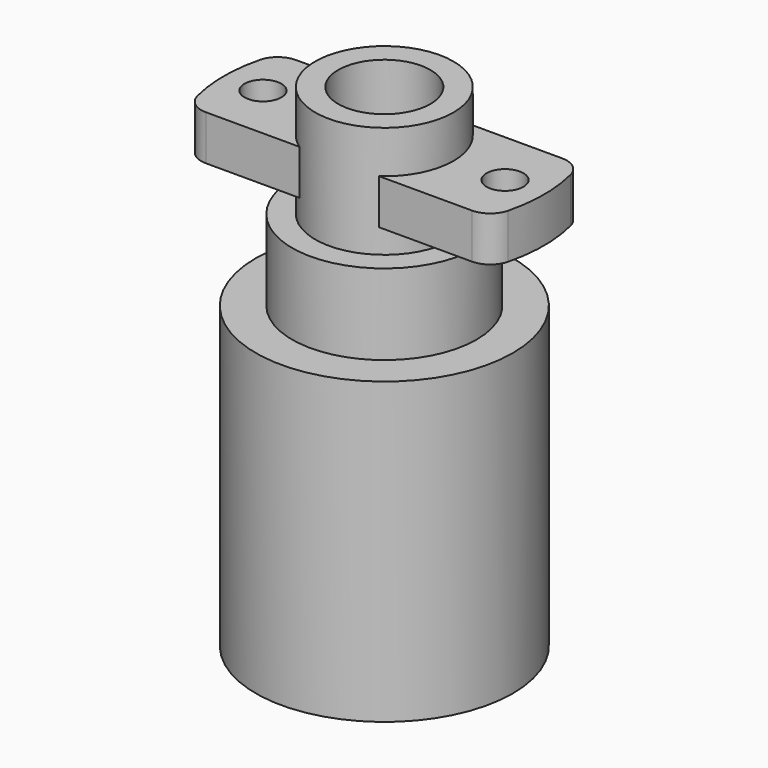
from build123d import *

# Parameters (mm, degrees)
F3_R     = 4
F4_DEPTH = 3.9
F5_R     = 1.6
F6_DEPTH = 3.9


with BuildPart() as f1:
    # F0 (on Front) → F1 (revolve)
    with BuildSketch(Plane.XZ):
        Polygon((3.0294142647, -2.9052242924), (3.0294142647, -18.0052242924), (11.1794142647, -18.0052242924), (11.1794142647, 7.9947757076), (8.0294142647, 7.9947757076), (8.0294142647, 14.9947757076), (6.0294142647, 14.9947757076), (6.0294142647, 20.9947757076), (6.0294142647, 24.6947757076), (4.0294142647, 24.6947757076), (4.0294142647, 18.1947757076), (2.1294142647, 17.1845277874), (2.1294142647, -2.3644497353), align=None)
    revolve(axis=Axis((0.0294142647, 0, 3.3447757076), (0, 0, -1)))

    # F3 (on offset) → F4 (join)
    with BuildSketch(Plane.XY.offset(20.9947757076)):
        with BuildLine():
            ThreePointArc((-11.541230437, 4.9), (-12.7711105295, 4.4771477286), (-13.4809330315, 3.387394958))
            ThreePointArc((-13.4809330315, 3.387394958), (-13.9, 0), (-13.4809330315, -3.387394958))
            ThreePointArc((-13.4809330315, -3.387394958), (-12.7711105295, -4.4771477286), (-11.541230437, -4.9))
            Line((-11.541230437, -4.9), (11.541230437, -4.9))
            ThreePointArc((11.541230437, -4.9), (12.7711105295, -4.4771477286), (13.4809330315, -3.387394958))
            ThreePointArc((13.4809330315, -3.387394958), (13.9, 0), (13.4809330315, 3.387394958))
            ThreePointArc((13.4809330315, 3.387394958), (12.7711105295, 4.4771477286), (11.541230437, 4.9))
            Line((11.541230437, 4.9), (-11.541230437, 4.9))
        make_face()
        with Locations((0.0294142647, 0)):
            Circle(F3_R, mode=Mode.SUBTRACT)
    extrude(amount=-F4_DEPTH)

    # F5 (on face) → F6 (cut, through all)
    with BuildSketch(Plane.XY.offset(20.9947757076)):
        with Locations((-10.5, 0)):
            Circle(F5_R)
        with Locations((10.5, 0)):
            Circle(F5_R)
    extrude(amount=-F6_DEPTH, mode=Mode.SUBTRACT)


solid = f1.part
